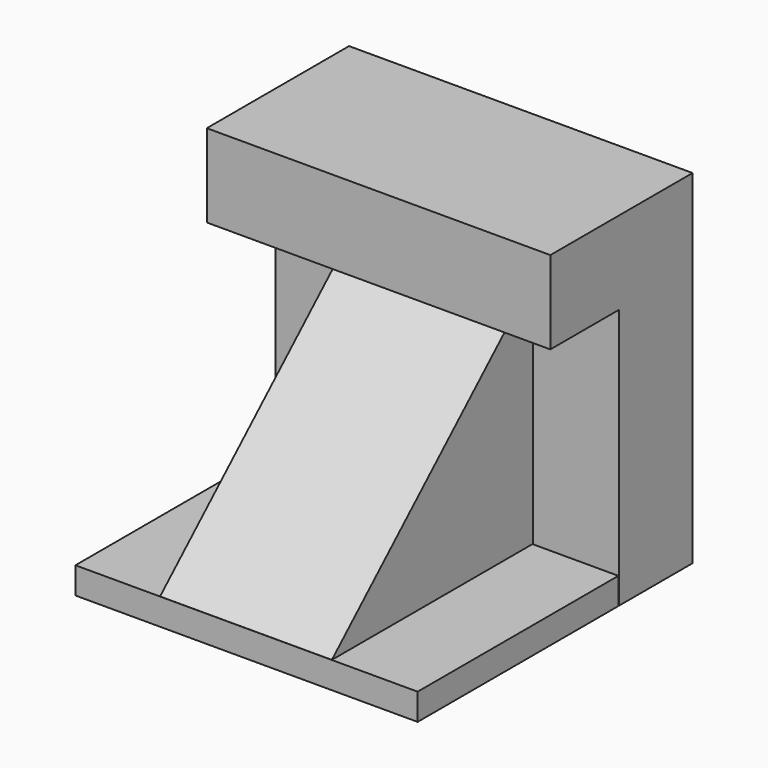
from build123d import *

# Parameters (mm, degrees)
F0_W     = 101.6
F0_H     = 101.6
F1_DEPTH = 101.6
F2_W     = 25.4
F2_H     = 101.6
F3_DEPTH = 74.422
F4_W     = 101.205684
F4_H     = 74.202821
F5_DEPTH = 7.874
F7_DEPTH = 102.616
F9_DEPTH = 25.4


with BuildPart() as f1:
    # F0 (on Top) → F1 (new body)
    with BuildSketch(Plane.XY):
        with Locations((-50.8, -50.8)):
            Rectangle(F0_W, F0_H)
    extrude(amount=F1_DEPTH)

    # F2 (on face) → F3 (cut)
    with BuildSketch(Plane.XZ.offset(101.6)):
        with Locations((-12.7, 50.8)):
            Rectangle(F2_W, F2_H)
        with Locations((-88.9, 50.8)):
            Rectangle(F2_W, F2_H)
    extrude(amount=-F3_DEPTH, mode=Mode.SUBTRACT)

    # F4 (on Top) → F5 (join)
    with BuildSketch(Plane.XY):
        with Locations((-50.602842, -64.534433)):
            Rectangle(F4_W, F4_H)
    extrude(amount=F5_DEPTH)

    # F6 (on face) → F7 (cut)
    with BuildSketch(Plane.YZ.offset(-25.4)):
        Polygon((-101.6, 101.6), (-101.6, 7.874), (-27.178, 77.03993), (-27.178, 101.6), align=None)
    extrude(amount=-F7_DEPTH, mode=Mode.SUBTRACT)

    # F8 (on face) → F9 (join)
    with BuildSketch(Plane.XZ.offset(27.178)):
        Polygon((0, 101.6), (-101.6, 101.6), (-101.6, 77.03993), (-76.2, 77.03993), (-25.4, 77.03993), (0, 77.03993), align=None)
    extrude(amount=F9_DEPTH)


solid = f1.part
